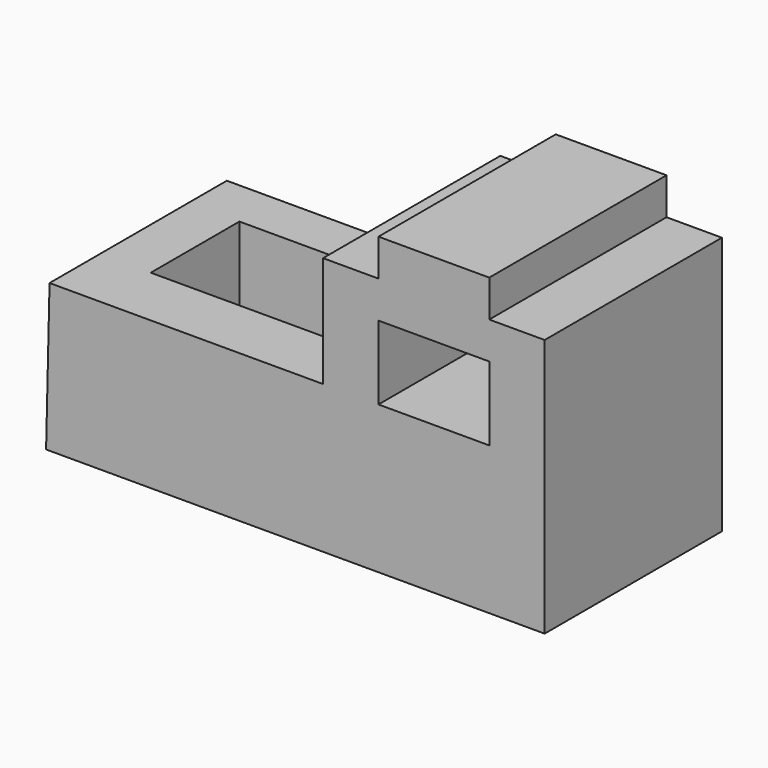
from build123d import *

# Parameters (mm, degrees)
F0_W     = 24
F0_H     = 16
F1_DEPTH = 48
F2_W     = 48
F2_H     = 24
F3_DEPTH = 31.991146
F4_W     = 48
F4_H     = 24
F5_DEPTH = 8


with BuildPart() as f1:
    # F0 (on Front) → F1 (new body)
    with BuildSketch(Plane.XZ):
        Polygon((-49.863074, 31.991146), (-50.615804, 0), (57.384196, 0), (57.384196, 56), (45.384196, 56), (45.384196, 64), (21.384196, 64), (21.384196, 56), (9.384196, 56), (9.384196, 31.991146), align=None)
        with Locations((33.384196, 40)):
            Rectangle(F0_W, F0_H, mode=Mode.SUBTRACT)
    extrude(amount=F1_DEPTH)

    # F2 (on Top) → F3 (cut, through all)
    with BuildSketch(Plane.XY):
        with Locations((-14.853436, -22.356194)):
            Rectangle(F2_W, F2_H)
    extrude(amount=F3_DEPTH, mode=Mode.SUBTRACT)

    # F4 (on Top) → F5 (join)
    with BuildSketch(Plane.XY):
        with Locations((-14.719842, -22.231252)):
            Rectangle(F4_W, F4_H)
    extrude(amount=F5_DEPTH)


solid = f1.part
